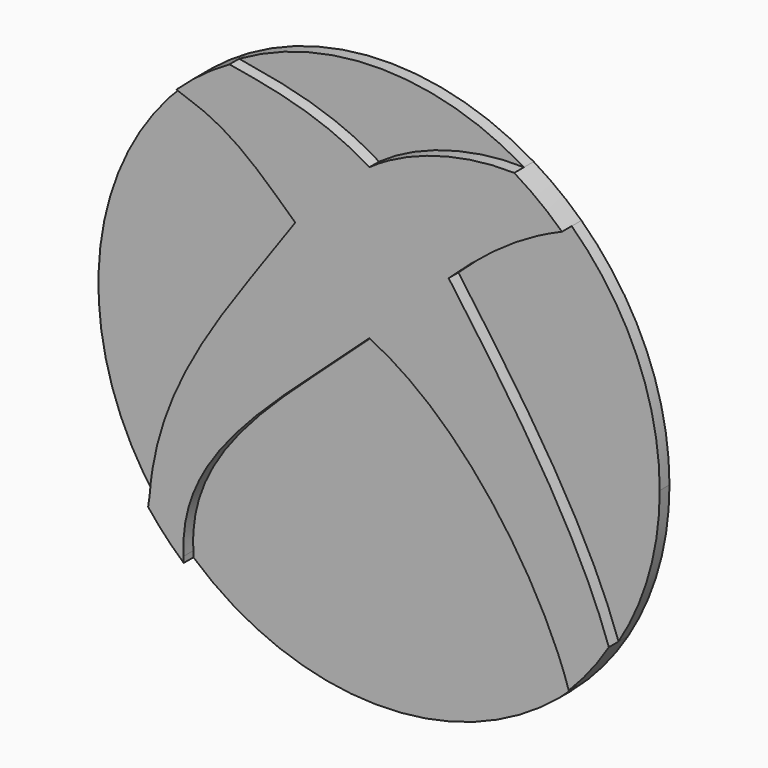
from build123d import *

# Parameters (mm, degrees)
F1_DEPTH = 2.54
F2_DEPTH = 5.08


with BuildPart() as f1:
    # F0 (on Front) → F1 (new body)
    with BuildSketch(Plane.XZ):
        with BuildLine():
            ThreePointArc((50.034948, -30.582519), (56.448624, -15.885194), (58.641167, 0))
            ThreePointArc((58.641167, 0), (53.846731, 23.223178), (40.2474, 42.648954))
            add(Edge.make_bspline(
                [(16.570685, 26.408125), (23.263536, 32.695353), (30.564828, 38.576946), (40.2474, 42.648954)],
                knots=[0, 0, 0, 0, 28.711519, 28.711519, 28.711519, 28.711519], degree=3))
            add(Edge.make_bspline(
                [(16.570685, 26.408125), (29.209305, 8.924421), (43.342095, -11.112408), (50.034948, -30.582519)],
                knots=[0, 0, 0, 0, 66.08926, 66.08926, 66.08926, 66.08926], degree=3))
        make_face()
        with BuildLine():
            add(Edge.make_bspline(
                [(16.570685, 26.408125), (23.263536, 32.695353), (30.564828, 38.576946), (40.2474, 42.648954)],
                knots=[0, 0, 0, 0, 28.711519, 28.711519, 28.711519, 28.711519], degree=3))
            ThreePointArc((40.2474, 42.648954), (35.461347, 46.704169), (30.269499, 50.224933))
            add(Edge.make_bspline(
                [(30.269499, 50.224933), (20.221332, 50.542954), (8.458137, 47.500748), (0, 41.41634)],
                knots=[0, 0, 0, 0, 31.525131, 31.525131, 31.525131, 31.525131], degree=3))
            add(Edge.make_bspline(
                [(0, 41.41634), (-9.795095, 47.500748), (-20.138593, 49.326073), (-29.225386, 50.839584)],
                knots=[0, 0, 0, 0, 30.707014, 30.707014, 30.707014, 30.707014], degree=3))
            ThreePointArc((-29.225386, 50.839584), (-35.011661, 47.042216), (-40.310237, 42.589568))
            Line((-40.310237, 42.589568), (-38.189009, 41.821968))
            add(Edge.make_bspline(
                [(-38.189009, 41.821968), (-28.453952, 38.779758), (-22.369543, 32.492537), (-15.473878, 26.205312)],
                knots=[0, 0, 0, 0, 27.565505, 27.565505, 27.565505, 27.565505], degree=3))
            add(Edge.make_bspline(
                [(-15.473878, 26.205312), (-28.859582, 6.735198), (-44.273421, -11.112408), (-45.89593, -33.82754)],
                knots=[0, 0, 0, 0, 67.301148, 67.301148, 67.301148, 67.301148], degree=3))
            Line((-45.89593, -33.82754), (-46.222024, -36.087546))
            ThreePointArc((-46.222024, -36.087546), (-42.685571, -40.208562), (-38.783069, -43.98477))
            Line((-38.783069, -43.98477), (-38.797453, -42.751342))
            add(Edge.make_bspline(
                [(-38.797453, -42.751342), (-40.014334, -22.875601), (-19.935779, -8.678642), (0, 9.980217)],
                knots=[0, 0, 0, 0, 65.466477, 65.466477, 65.466477, 65.466477], degree=3))
            add(Edge.make_bspline(
                [(0, 9.980217), (21.032587, 0), (36.810137, -25.684895), (41.660637, -41.269574)],
                knots=[0, 0, 0, 0, 66.046573, 66.046573, 66.046573, 66.046573], degree=3))
            ThreePointArc((41.660637, -41.269574), (46.158134, -36.169229), (50.034948, -30.582519))
            add(Edge.make_bspline(
                [(16.570685, 26.408125), (29.209305, 8.924421), (43.342095, -11.112408), (50.034948, -30.582519)],
                knots=[0, 0, 0, 0, 66.08926, 66.08926, 66.08926, 66.08926], degree=3))
        make_face()
        with BuildLine():
            add(Edge.make_bspline(
                [(30.269499, 50.224933), (20.221332, 50.542954), (8.458137, 47.500748), (0, 41.41634)],
                knots=[0, 0, 0, 0, 31.525131, 31.525131, 31.525131, 31.525131], degree=3))
            ThreePointArc((30.269499, 50.224933), (0.605799, 58.638038), (-29.225386, 50.839584))
            add(Edge.make_bspline(
                [(0, 41.41634), (-9.795095, 47.500748), (-20.138593, 49.326073), (-29.225386, 50.839584)],
                knots=[0, 0, 0, 0, 30.707014, 30.707014, 30.707014, 30.707014], degree=3))
        make_face()
        with BuildLine():
            ThreePointArc((-38.783069, -43.98477), (1.978174, -58.607792), (41.660637, -41.269574))
            add(Edge.make_bspline(
                [(0, 9.980217), (21.032587, 0), (36.810137, -25.684895), (41.660637, -41.269574)],
                knots=[0, 0, 0, 0, 66.046573, 66.046573, 66.046573, 66.046573], degree=3))
            add(Edge.make_bspline(
                [(-38.797453, -42.751342), (-40.014334, -22.875601), (-19.935779, -8.678642), (0, 9.980217)],
                knots=[0, 0, 0, 0, 65.466477, 65.466477, 65.466477, 65.466477], degree=3))
            Line((-38.797453, -42.751342), (-38.783069, -43.98477))
        make_face()
        with BuildLine():
            Line((-38.189009, 41.821968), (-40.310237, 42.589568))
            ThreePointArc((-40.310237, 42.589568), (-58.476321, 4.393902), (-46.222024, -36.087546))
            Line((-46.222024, -36.087546), (-45.89593, -33.82754))
            add(Edge.make_bspline(
                [(-15.473878, 26.205312), (-28.859582, 6.735198), (-44.273421, -11.112408), (-45.89593, -33.82754)],
                knots=[0, 0, 0, 0, 67.301148, 67.301148, 67.301148, 67.301148], degree=3))
            add(Edge.make_bspline(
                [(-38.189009, 41.821968), (-28.453952, 38.779758), (-22.369543, 32.492537), (-15.473878, 26.205312)],
                knots=[0, 0, 0, 0, 27.565505, 27.565505, 27.565505, 27.565505], degree=3))
        make_face()
    extrude(amount=F1_DEPTH)

    # F0 (on Front) → F2 (join)
    with BuildSketch(Plane.XZ):
        with BuildLine():
            add(Edge.make_bspline(
                [(16.570685, 26.408125), (23.263536, 32.695353), (30.564828, 38.576946), (40.2474, 42.648954)],
                knots=[0, 0, 0, 0, 28.711519, 28.711519, 28.711519, 28.711519], degree=3))
            ThreePointArc((40.2474, 42.648954), (35.461347, 46.704169), (30.269499, 50.224933))
            add(Edge.make_bspline(
                [(30.269499, 50.224933), (20.221332, 50.542954), (8.458137, 47.500748), (0, 41.41634)],
                knots=[0, 0, 0, 0, 31.525131, 31.525131, 31.525131, 31.525131], degree=3))
            add(Edge.make_bspline(
                [(0, 41.41634), (-9.795095, 47.500748), (-20.138593, 49.326073), (-29.225386, 50.839584)],
                knots=[0, 0, 0, 0, 30.707014, 30.707014, 30.707014, 30.707014], degree=3))
            ThreePointArc((-29.225386, 50.839584), (-35.011661, 47.042216), (-40.310237, 42.589568))
            Line((-40.310237, 42.589568), (-38.189009, 41.821968))
            add(Edge.make_bspline(
                [(-38.189009, 41.821968), (-28.453952, 38.779758), (-22.369543, 32.492537), (-15.473878, 26.205312)],
                knots=[0, 0, 0, 0, 27.565505, 27.565505, 27.565505, 27.565505], degree=3))
            add(Edge.make_bspline(
                [(-15.473878, 26.205312), (-28.859582, 6.735198), (-44.273421, -11.112408), (-45.89593, -33.82754)],
                knots=[0, 0, 0, 0, 67.301148, 67.301148, 67.301148, 67.301148], degree=3))
            Line((-45.89593, -33.82754), (-46.222024, -36.087546))
            ThreePointArc((-46.222024, -36.087546), (-42.685571, -40.208562), (-38.783069, -43.98477))
            Line((-38.783069, -43.98477), (-38.797453, -42.751342))
            add(Edge.make_bspline(
                [(-38.797453, -42.751342), (-40.014334, -22.875601), (-19.935779, -8.678642), (0, 9.980217)],
                knots=[0, 0, 0, 0, 65.466477, 65.466477, 65.466477, 65.466477], degree=3))
            add(Edge.make_bspline(
                [(0, 9.980217), (21.032587, 0), (36.810137, -25.684895), (41.660637, -41.269574)],
                knots=[0, 0, 0, 0, 66.046573, 66.046573, 66.046573, 66.046573], degree=3))
            ThreePointArc((41.660637, -41.269574), (46.158134, -36.169229), (50.034948, -30.582519))
            add(Edge.make_bspline(
                [(16.570685, 26.408125), (29.209305, 8.924421), (43.342095, -11.112408), (50.034948, -30.582519)],
                knots=[0, 0, 0, 0, 66.08926, 66.08926, 66.08926, 66.08926], degree=3))
        make_face()
    extrude(amount=F2_DEPTH)


solid = f1.part
